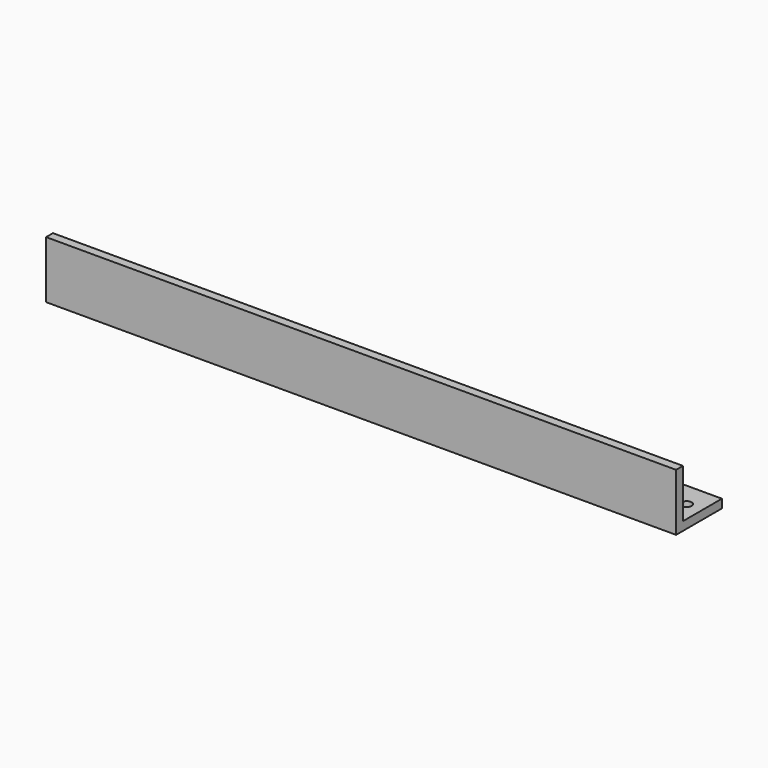
from build123d import *

# Parameters (mm, degrees)
F1_DEPTH = 220
F2_R     = 1.75
F3_DEPTH = 25


with BuildPart() as f1:
    # F0 (on Right) → F1 (new body)
    with BuildSketch(Plane.YZ):
        Polygon((0, 20), (0, 0), (20, 0), (20, 3), (3, 3), (3, 20), align=None)
    extrude(amount=F1_DEPTH)

    # F2 (on face) → F3 (cut)
    with BuildSketch(Plane(origin=(0, 0, 0), x_dir=(1, 0, 0), z_dir=(0, 0, -1))):
        with Locations((5.5, -11.5)):
            Circle(F2_R)
        with Locations((110, -11.5)):
            Circle(F2_R)
        with Locations((214.5, -11.5)):
            Circle(F2_R)
    extrude(amount=-F3_DEPTH, mode=Mode.SUBTRACT)


solid = f1.part
